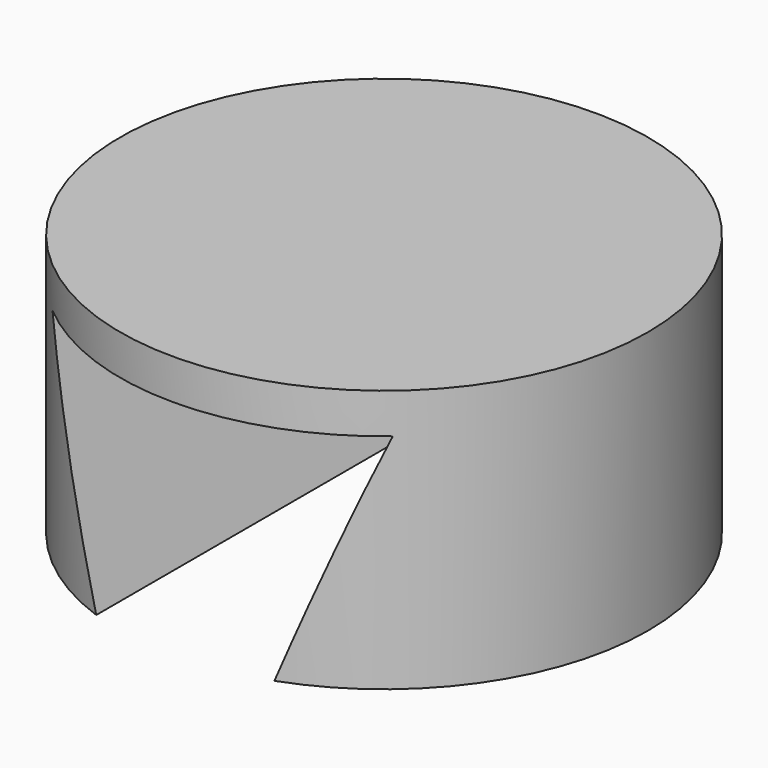
from build123d import *

# Parameters (mm, degrees)
F0_R     = 5.925
F1_DEPTH = 5.9
F3_DEPTH = 12.5


with BuildPart() as f1:
    # F0 (on Top) → F1 (new body)
    with BuildSketch(Plane.XY):
        Circle(F0_R)
    extrude(amount=F1_DEPTH)

    # F2 (on Front) → F3 (cut, symmetric)
    with BuildSketch(Plane.XZ):
        Polygon((-2, 0), (0, 0), (2, 0), (3.819851, 5), (-3.819851, 5), align=None)
    extrude(amount=F3_DEPTH, both=True, mode=Mode.SUBTRACT)


solid = f1.part
